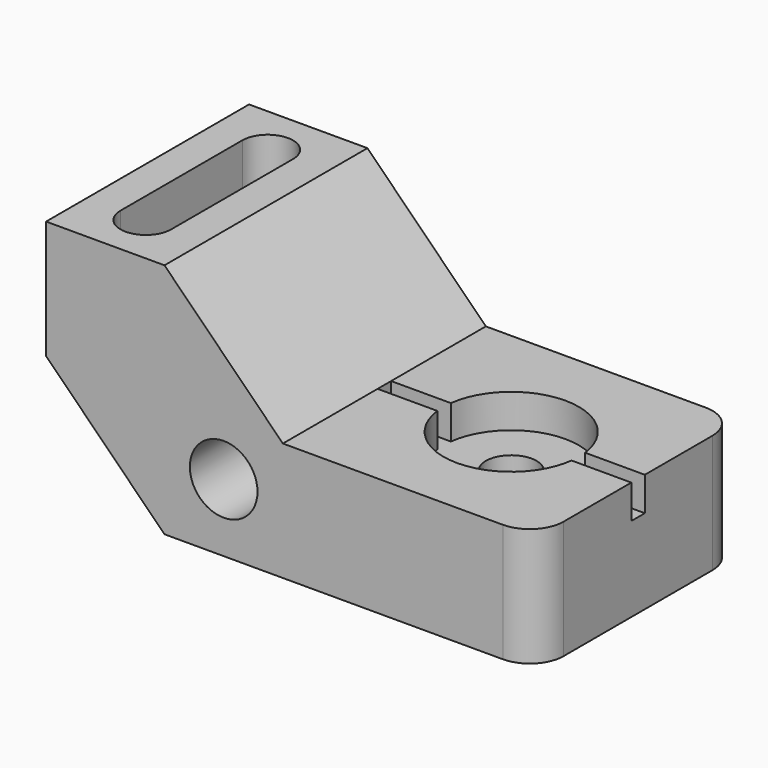
from build123d import *

# Parameters (mm, degrees)
F1_DEPTH  = 76.2
F2_R      = 10.16
F3_R      = 10.16
F4_DEPTH  = 76.201
F6_DEPTH  = 27.94
F8_DEPTH  = 10.16
F9_R      = 7.62
F10_DEPTH = 25.401


with BuildPart() as f1:
    # F0 (on Front) → F1 (new body)
    with BuildSketch(Plane.XZ):
        Polygon((-35.56, 35.56), (0, 0), (111.76, 0), (111.76, 35.56), (35.56, 35.56), (0, 71.12), (-35.56, 71.12), align=None)
    extrude(amount=F1_DEPTH)

    # F2
    f2_edges = [f1.edges().sort_by_distance(p)[0] for p in [
        (111.76, -76.2, 17.78),
        (111.76, 0, 17.78),
    ]]
    fillet(f2_edges, radius=F2_R)

    # F3 (on Front) → F4 (cut, through all)
    with BuildSketch(Plane.XZ):
        with Locations((17.78, 20.32)):
            Circle(F3_R)
    extrude(amount=F4_DEPTH, mode=Mode.SUBTRACT)

    # F5 (on face) → F6 (cut)
    with BuildSketch(Plane.XY.offset(71.12)):
        with BuildLine():
            ThreePointArc((-10.165424, -15.527446), (-17.636252, -7.621356), (-25.4, -15.24))
            Line((-25.4, -15.24), (-25.4, -60.96))
            ThreePointArc((-25.4, -60.96), (-17.782712, -68.577288), (-10.165424, -60.96))
            Line((-10.165424, -60.96), (-10.165424, -15.527446))
        make_face()
    extrude(amount=-F6_DEPTH, mode=Mode.SUBTRACT)

    # F7 (on face) → F8 (cut)
    with BuildSketch(Plane.XY.offset(35.56)):
        with BuildLine():
            ThreePointArc((93.820625, -40.64), (93.940117, -39.372498), (93.98, -38.1))
            ThreePointArc((93.98, -38.1), (93.940117, -36.827502), (93.820625, -35.56))
            ThreePointArc((93.820625, -35.56), (73.66, -17.78), (53.499375, -35.56))
            ThreePointArc((53.499375, -35.56), (53.34, -38.1), (53.499375, -40.64))
            ThreePointArc((53.499375, -40.64), (73.66, -58.42), (93.820625, -40.64))
        make_face()
        with BuildLine():
            ThreePointArc((93.820625, -35.56), (93.940117, -36.827502), (93.98, -38.1))
            ThreePointArc((93.98, -38.1), (93.940117, -39.372498), (93.820625, -40.64))
            Line((93.820625, -40.64), (111.76, -40.64))
            Line((111.76, -40.64), (111.76, -35.56))
            Line((111.76, -35.56), (93.820625, -35.56))
        make_face()
        with BuildLine():
            ThreePointArc((53.499375, -40.64), (53.34, -38.1), (53.499375, -35.56))
            Line((53.499375, -35.56), (35.56, -35.56))
            Line((35.56, -35.56), (35.56, -40.64))
            Line((35.56, -40.64), (53.499375, -40.64))
        make_face()
    extrude(amount=-F8_DEPTH, mode=Mode.SUBTRACT)

    # F9 (on face) → F10 (cut, through all)
    with BuildSketch(Plane.XY.offset(25.4)):
        with Locations((73.66, -38.1)):
            Circle(F9_R)
    extrude(amount=-F10_DEPTH, mode=Mode.SUBTRACT)


solid = f1.part
